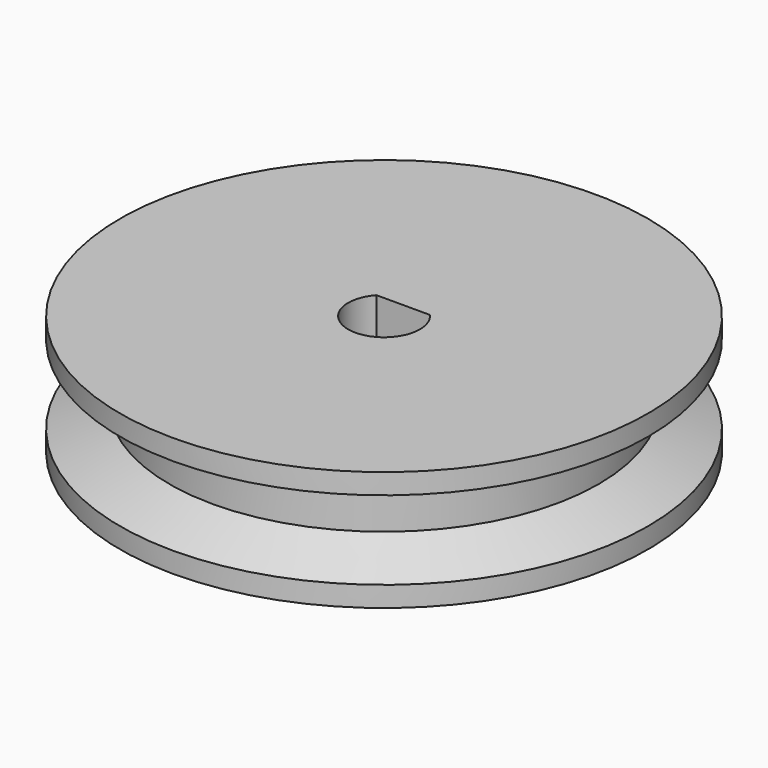
from build123d import *

# Parameters (mm, degrees)
PAD_DEPTH         = 8.5
SKETCH003_R       = 109.254571
SKETCH003_R_2     = 59.25
POCKET_DEPTH      = 8.501
POCKET_DEPTH_BACK = -8.501


with BuildPart() as part:
    # Sketch → Pad (new body, symmetric)
    with BuildSketch(Plane.XY):
        with BuildLine():
            ThreePointArc((0, -37.5), (37.5, 0), (0, 37.5))
            Line((0, 37.5), (0, 5.8))
            Line((0, 5.8), (0, 5.1))
            Line((0, 3.4), (0, 5.1))
            Line((0, 3.4), (3.801316, 3.4))
            ThreePointArc((0, -5.1), (4.655642, -2.082066), (3.801316, 3.4))
            Line((0, -5.1), (0, -37.5))
        make_face()
    pad = extrude(amount=PAD_DEPTH, both=True)

    # Mirrored: Pad across Sketch V_Axis
    add(pad.mirror(Plane(origin=(0, 0, 0), x_dir=(0, 0, 1), z_dir=(1, 0, 0))))

    # Sketch001 → Groove (revolve, cut)
    with BuildSketch(Plane.YZ):
        Polygon((37.5, 0), (37.5, 5.6), (30.5, 2.6), (30.5, 0), align=None)
    groove = revolve(axis=Axis((0, 0, 0), (0, 0, 1)), mode=Mode.SUBTRACT)

    # Mirrored001: Groove across Sketch001 H_Axis
    add(groove.mirror(Plane.XY), mode=Mode.SUBTRACT)

    # Sketch003 → Pocket (cut, two sides)
    with BuildSketch(Plane.XY) as pocket_sk:
        Circle(SKETCH003_R)
        Circle(SKETCH003_R_2, mode=Mode.SUBTRACT)
    extrude(amount=-POCKET_DEPTH, mode=Mode.SUBTRACT)
    extrude(pocket_sk.sketch, amount=-POCKET_DEPTH_BACK, mode=Mode.SUBTRACT)


solid = part.part
